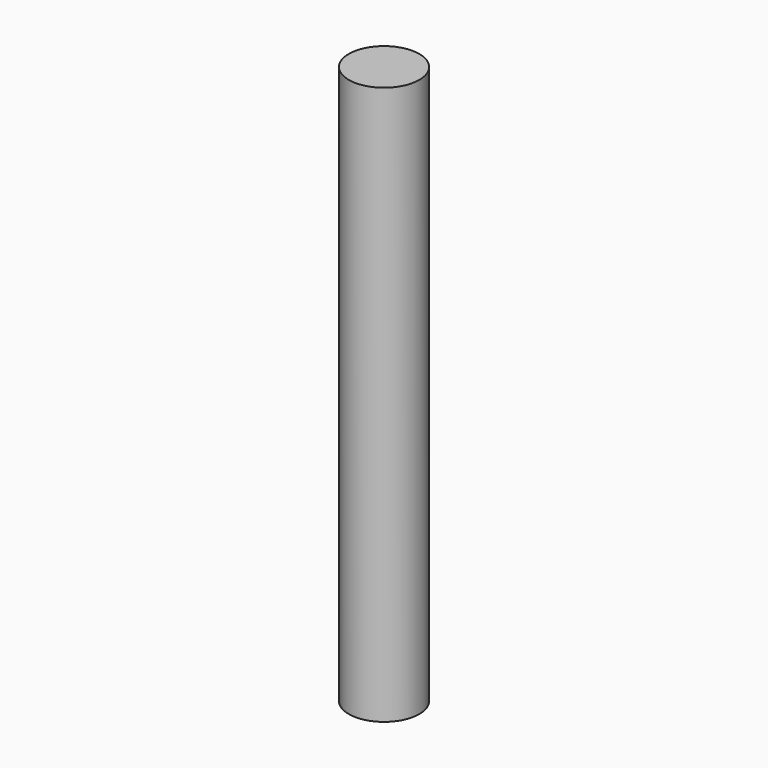
from build123d import *

# Parameters (mm, degrees)
F0_W     = 107.8754812479
F0_H     = 26.1090872809
F1_DEPTH = 12.7
F2_DEPTH = 12.7
F3_R     = 11.2223896829
F4_DEPTH = 177.8
F5_DEPTH = 25.4


with BuildPart() as f1:
    # F0 (on Front) → F1 (new body)
    with BuildSketch(Plane.XZ):
        with Locations((0.7920116186, 0.3961385228)):
            Rectangle(F0_W, F0_H)
    extrude(amount=F1_DEPTH)

    # F2 (add): a face of the model
    f2_faces = [f1.faces().sort_by_distance(p)[0] for p in [
        (0.7920116186, 0, 0.3961385228),
    ]]
    extrude(f2_faces, amount=F2_DEPTH)

    # F3 (on face) → F4 (join)
    with BuildSketch(Plane(origin=(0, 0, -12.6584051177), x_dir=(1, 0, 0), z_dir=(0, 0, -1))):
        Circle(F3_R)
    extrude(amount=F4_DEPTH)

    # F5 (cut): a face of the model
    f5_faces = [f1.faces().sort_by_distance(p)[0] for p in [
        (0.7920116186, -12.7, 0.3961385228),
    ]]
    extrude(f5_faces, amount=-F5_DEPTH, mode=Mode.SUBTRACT)


solid = f1.part
